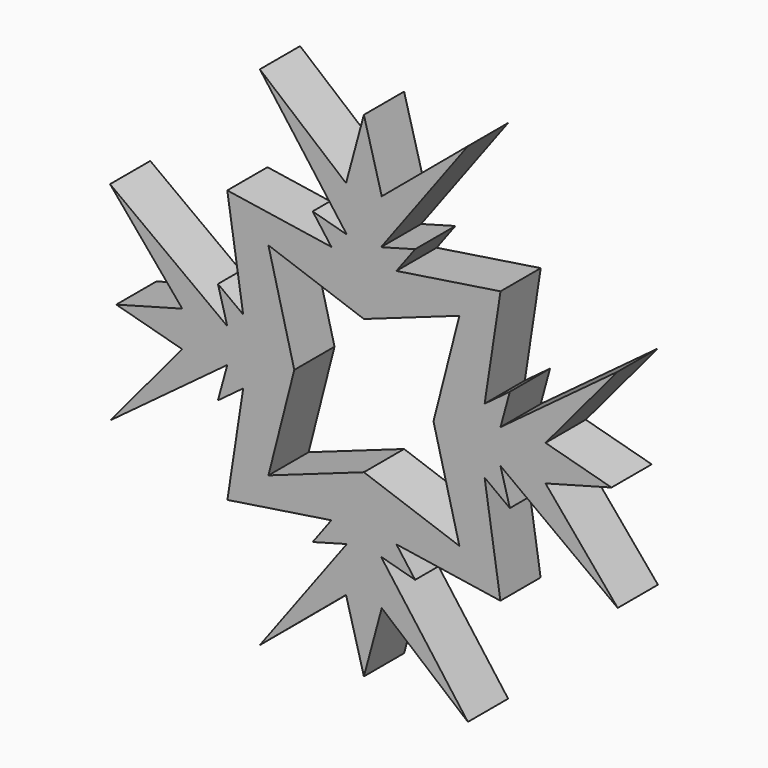
from build123d import *

# Parameters (mm, degrees)
F1_DEPTH = 12.7


with BuildPart() as f1:
    # F0 (on Front) → F1 (new body)
    with BuildSketch(Plane.XZ):
        Polygon((4.510367, 45.790039), (0, 62.458787), (-4.510367, 45.790039), (-26.277795, 64.027615), (-4.314265, 34.416065), (-12.942794, 36.769301), (-8.221366, 30.403804), (-34.51412, 34.416065), (-30.501858, 8.123312), (-36.867355, 12.844739), (-34.514118, 4.21621), (-64.12567, 26.179739), (-45.888093, 4.412312), (-62.55684, -0.098056), (-45.888092, -4.608423), (-64.125667, -26.375852), (-34.514118, -4.41232), (-36.867353, -13.040849), (-30.501857, -8.319421), (-34.483476, -34.411388), (-8.221366, -30.403804), (-12.942794, -36.769301), (-4.314265, -34.416065), (-26.277795, -64.027615), (-4.510367, -45.790039), (0, -62.458787), (4.510367, -45.790039), (26.277795, -64.027615), (4.314265, -34.416065), (12.942794, -36.769301), (8.221366, -30.403804), (34.483476, -34.411388), (30.501857, -8.319421), (36.867353, -13.040849), (34.514118, -4.41232), (64.125667, -26.375852), (45.888092, -4.608423), (62.55684, -0.098056), (45.888093, 4.412312), (64.12567, 26.179739), (34.514118, 4.21621), (36.867355, 12.844739), (30.501858, 8.123312), (34.51412, 34.416065), (8.221366, 30.403804), (12.942794, 36.769301), (4.314265, 34.416065), (26.277795, 64.027615), align=None)
        Polygon((-24.12066, 25.591435), (0, 17.037763), (24.12066, 25.591435), (17.584657, 0), (24.12066, -25.591435), (0, -17.037763), (-24.12066, -25.591435), (-17.584657, 0), align=None, mode=Mode.SUBTRACT)
    extrude(amount=F1_DEPTH)


solid = f1.part
